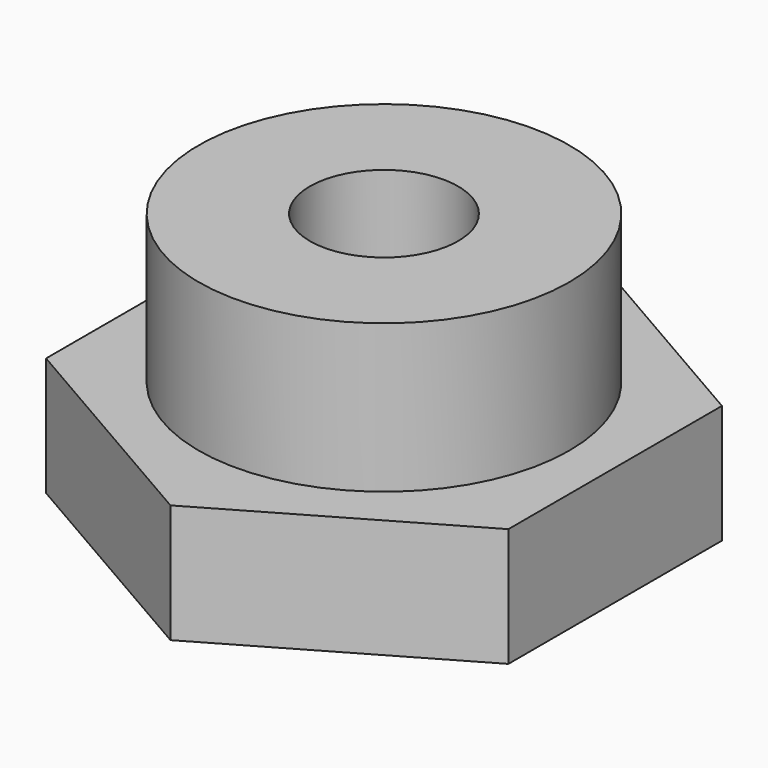
from build123d import *

# Parameters (mm, degrees)
F2_DEPTH = 4
F1_R     = 6.25
F3_DEPTH = 9
F5_D     = 5


with BuildPart() as f2:
    # F0 (on Top) → F2 (new body)
    with BuildSketch(Plane.XY):
        Polygon((-7.794229, 4.5), (-7.794229, -4.5), (0, -9), (7.794229, -4.5), (7.794229, 4.5), (0, 9), align=None)
    extrude(amount=F2_DEPTH)

    # F1 (on Top) → F3 (join)
    with BuildSketch(Plane.XY):
        Circle(F1_R)
    extrude(amount=F3_DEPTH)

    # F5 (through all)
    with Locations(Plane.XY.offset(9)):
        with Locations((0, 0)):
            Hole(F5_D / 2)


solid = f2.part
